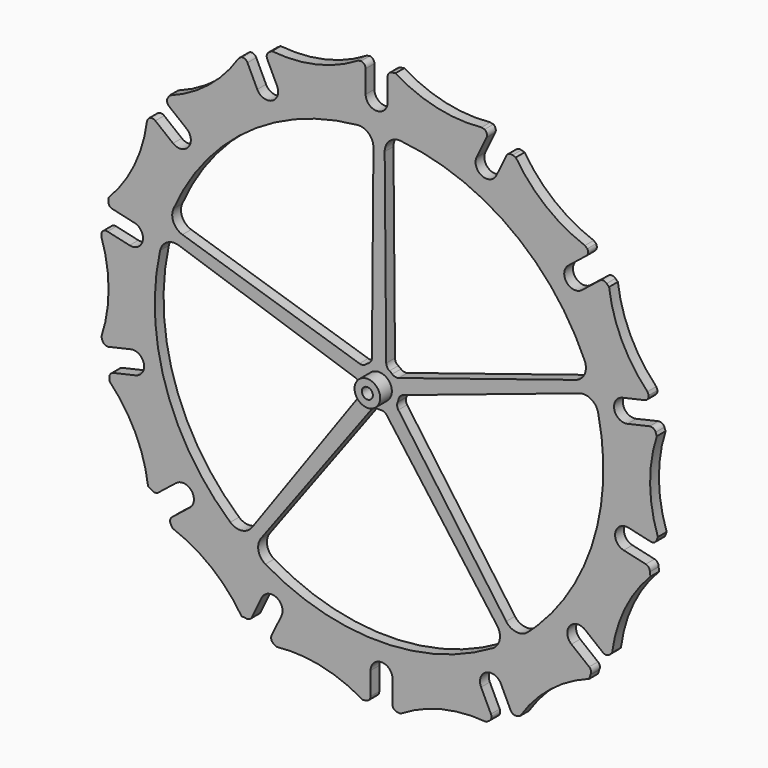
from build123d import *

# Parameters (mm, degrees)
F0_R     = 3.5
F1_DEPTH = 3
F0_R_2   = 1.5
F2_DEPTH = 7


with BuildPart() as f1:
    # F0 (on Front) → F1 (new body)
    with BuildSketch(Plane.XZ):
        with BuildLine():
            ThreePointArc((-25.190406, -28.420861), (-24.311726, -26.299541), (-22.190406, -25.420861))
            ThreePointArc((-22.190406, -25.420861), (-20.069085, -26.299541), (-19.190406, -28.420861))
            Line((-19.190406, -28.420861), (-19.190406, -34.593669))
            ThreePointArc((-19.190406, -34.593669), (-18.844109, -35.552886), (-17.943219, -36.030817))
            ThreePointArc((-17.943219, -36.030817), (-17.491836, -36.088041), (-17.041222, -36.151035))
            ThreePointArc((-17.041222, -36.151035), (-5.766514, -31.401738), (6.433422, -30.487183))
            ThreePointArc((6.433422, -30.487183), (6.812079, -30.234913), (7.193932, -29.987508))
            ThreePointArc((7.193932, -29.987508), (7.793854, -29.18094), (7.707486, -28.179442))
            Line((7.707486, -28.179442), (5.015772, -22.590041))
            ThreePointArc((5.015772, -22.590041), (6.417028, -18.585483), (10.421586, -19.986739))
            Line((10.421586, -19.986739), (13.099867, -25.548246))
            ThreePointArc((13.099867, -25.548246), (13.828058, -26.262219), (14.847098, -26.301938))
            ThreePointArc((14.847098, -26.301938), (15.278609, -26.157648), (15.71193, -26.018889))
            ThreePointArc((15.71193, -26.018889), (23.92157, -16.949533), (34.590355, -10.963848))
            ThreePointArc((34.590355, -10.963848), (34.727828, -10.456132), (34.872796, -9.950504))
            ThreePointArc((34.872796, -9.950504), (35.06335, -8.963515), (34.551001, -8.09867))
            Line((34.551001, -8.09867), (29.700701, -4.230684))
            ThreePointArc((29.700701, -4.230684), (29.225676, -0.01472), (33.44164, 0.460305))
            Line((33.44164, 0.460305), (38.267735, -3.388378))
            ThreePointArc((38.267735, -3.388378), (39.233594, -3.715694), (40.168951, -3.309336))
            ThreePointArc((40.168951, -3.309336), (40.495123, -2.992109), (40.825327, -2.679081))
            ThreePointArc((40.825327, -2.679081), (44.286911, 9.054156), (51.302063, 19.076084))
            ThreePointArc((51.302063, 19.076084), (51.205632, 19.593168), (51.116859, 20.111622))
            ThreePointArc((51.116859, 20.111622), (50.860305, 21.083547), (50.023452, 21.640446))
            Line((50.023452, 21.640446), (43.975226, 23.020914))
            ThreePointArc((43.975226, 23.020914), (41.718005, 26.61326), (45.310352, 28.870481))
            Line((45.310352, 28.870481), (51.328395, 27.496902))
            ThreePointArc((51.328395, 27.496902), (52.340621, 27.621071), (53.007035, 28.393024))
            ThreePointArc((53.007035, 28.393024), (53.163267, 28.820356), (53.324953, 29.245655))
            ThreePointArc((53.324953, 29.245655), (51.203589, 41.2945), (53.026705, 53.392066))
            ThreePointArc((53.026705, 53.392066), (52.865019, 53.817365), (52.708788, 54.244697))
            ThreePointArc((52.708788, 54.244697), (52.055937, 55.009056), (51.06033, 55.147707))
            Line((51.06033, 55.147707), (45.012104, 53.767239))
            ThreePointArc((45.012104, 53.767239), (41.419758, 56.02446), (43.676979, 59.616807))
            Line((43.676979, 59.616807), (49.695021, 60.990386))
            ThreePointArc((49.695021, 60.990386), (50.55313, 61.541447), (50.818612, 62.526098))
            ThreePointArc((50.818612, 62.526098), (50.640173, 62.913407), (50.466391, 63.302827))
            ThreePointArc((50.466391, 63.302827), (43.451239, 73.324755), (39.989656, 85.057992))
            Line((39.989656, 85.057992), (39.333279, 85.688246))
            ThreePointArc((39.333279, 85.688246), (38.413438, 86.093649), (37.456268, 85.786592))
            Line((37.456268, 85.786592), (32.605968, 81.918606))
            ThreePointArc((32.605968, 81.918606), (28.390004, 82.393631), (28.865029, 86.609595))
            Line((28.865029, 86.609595), (33.691125, 90.458278))
            ThreePointArc((33.691125, 90.458278), (34.225158, 91.327086), (34.037124, 92.329415))
            ThreePointArc((34.037124, 92.329415), (33.70831, 92.600946), (33.382774, 92.8764))
            ThreePointArc((33.382774, 92.8764), (22.713989, 98.862085), (14.50435, 107.931441))
            ThreePointArc((14.50435, 107.931441), (14.071028, 108.0702), (13.639518, 108.21449))
            ThreePointArc((13.639518, 108.21449), (12.634872, 108.180641), (11.905719, 107.488691))
            Line((11.905719, 107.488691), (9.214005, 101.899291))
            ThreePointArc((9.214005, 101.899291), (5.209447, 100.498035), (3.808192, 104.502593))
            Line((3.808192, 104.502593), (6.486473, 110.064101))
            ThreePointArc((6.486473, 110.064101), (6.590659, 111.078578), (5.986352, 111.90006))
            ThreePointArc((5.986352, 111.90006), (5.572287, 112.002034), (5.159475, 112.108965))
            ThreePointArc((5.159475, 112.108965), (-7.04986, 112.872869), (-18.381535, 117.482047))
            ThreePointArc((-18.381535, 117.482047), (-18.832149, 117.419053), (-19.283532, 117.361829))
            ThreePointArc((-19.283532, 117.361829), (-20.174, 116.895432), (-20.530719, 115.95564))
            Line((-20.530719, 115.95564), (-20.530719, 109.751873))
            ThreePointArc((-20.530719, 109.751873), (-23.530719, 106.751873), (-26.530719, 109.751873))
            Line((-26.530719, 109.751873), (-26.530719, 115.924681))
            ThreePointArc((-26.530719, 115.924681), (-26.877016, 116.883898), (-27.777905, 117.361829))
            ThreePointArc((-27.777905, 117.361829), (-28.19521, 117.274048), (-28.613536, 117.191277))
            ThreePointArc((-28.613536, 117.191277), (-39.945212, 112.582099), (-52.154547, 111.818195))
            ThreePointArc((-52.154547, 111.818195), (-52.533204, 111.565925), (-52.915057, 111.31852))
            ThreePointArc((-52.915057, 111.31852), (-53.514979, 110.511952), (-53.428611, 109.510454))
            Line((-53.428611, 109.510454), (-50.736897, 103.921053))
            ThreePointArc((-50.736897, 103.921053), (-52.138153, 99.916495), (-56.14271, 101.317751))
            Line((-56.14271, 101.317751), (-58.820991, 106.879258))
            ThreePointArc((-58.820991, 106.879258), (-59.549183, 107.59323), (-60.568223, 107.63295))
            ThreePointArc((-60.568223, 107.63295), (-60.906114, 107.372801), (-61.2471, 107.116722))
            ThreePointArc((-61.2471, 107.116722), (-69.45674, 98.047366), (-80.125525, 92.06168))
            ThreePointArc((-80.125525, 92.06168), (-80.357228, 91.6701), (-80.59392, 91.281516))
            ThreePointArc((-80.59392, 91.281516), (-80.784475, 90.294526), (-80.272126, 89.429681))
            Line((-80.272126, 89.429681), (-75.421825, 85.561696))
            ThreePointArc((-75.421825, 85.561696), (-74.9468, 81.345732), (-79.162764, 80.870707))
            Line((-79.162764, 80.870707), (-83.98886, 84.71939))
            ThreePointArc((-83.98886, 84.71939), (-84.954719, 85.046706), (-85.890075, 84.640347))
            ThreePointArc((-85.890075, 84.640347), (-86.081631, 84.259356), (-86.27774, 83.880688))
            ThreePointArc((-86.27774, 83.880688), (-89.739324, 72.147451), (-96.754475, 62.125523))
            ThreePointArc((-96.754475, 62.125523), (-96.793332, 61.672189), (-96.837984, 61.21939))
            ThreePointArc((-96.837984, 61.21939), (-96.581429, 60.247465), (-95.744576, 59.690566))
            Line((-95.744576, 59.690566), (-89.696351, 58.310098))
            ThreePointArc((-89.696351, 58.310098), (-87.43913, 54.717752), (-91.031477, 52.460531))
            Line((-91.031477, 52.460531), (-97.049519, 53.83411))
            ThreePointArc((-97.049519, 53.83411), (-98.061745, 53.709941), (-98.72816, 52.937988))
            ThreePointArc((-98.72816, 52.937988), (-98.735439, 52.511614), (-98.74783, 52.085357))
            ThreePointArc((-98.74783, 52.085357), (-96.775748, 40.012152), (-98.74783, 27.938946))
            ThreePointArc((-98.74783, 27.938946), (-98.586144, 27.513647), (-98.429912, 27.086315))
            ThreePointArc((-98.429912, 27.086315), (-97.777062, 26.321956), (-96.781454, 26.183304))
            Line((-96.781454, 26.183304), (-90.733229, 27.563772))
            ThreePointArc((-90.733229, 27.563772), (-87.140882, 25.306551), (-89.398103, 21.714205))
            Line((-89.398103, 21.714205), (-95.416146, 20.340626))
            ThreePointArc((-95.416146, 20.340626), (-96.274255, 19.789565), (-96.539736, 18.804914))
            ThreePointArc((-96.539736, 18.804914), (-96.495084, 18.352114), (-96.456228, 17.89878))
            ThreePointArc((-96.456228, 17.89878), (-89.441076, 7.876852), (-85.979492, -3.856385))
            ThreePointArc((-85.979492, -3.856385), (-85.515096, -4.103389), (-85.054404, -4.357235))
            ThreePointArc((-85.054404, -4.357235), (-84.134563, -4.762637), (-83.177393, -4.45558))
            Line((-83.177393, -4.45558), (-78.327093, -0.587594))
            ThreePointArc((-78.327093, -0.587594), (-74.111129, -1.062619), (-74.586154, -5.278583))
            Line((-74.586154, -5.278583), (-79.412249, -9.127266))
            ThreePointArc((-79.412249, -9.127266), (-79.946283, -9.996074), (-79.758249, -10.998403))
            ThreePointArc((-79.758249, -10.998403), (-79.521556, -11.386987), (-79.289854, -11.778568))
            ThreePointArc((-79.289854, -11.778568), (-68.621069, -17.764253), (-60.411429, -26.833609))
            ThreePointArc((-60.411429, -26.833609), (-59.885851, -26.854658), (-59.360642, -26.883478))
            ThreePointArc((-59.360642, -26.883478), (-58.355997, -26.849629), (-57.626844, -26.15768))
            Line((-57.626844, -26.15768), (-54.93513, -20.568279))
            ThreePointArc((-54.93513, -20.568279), (-50.930572, -19.167023), (-49.529317, -23.171581))
            Line((-49.529317, -23.171581), (-52.207598, -28.733089))
            ThreePointArc((-52.207598, -28.733089), (-52.311784, -29.747566), (-51.707477, -30.569048))
            ThreePointArc((-51.707477, -30.569048), (-51.325623, -30.816454), (-50.946966, -31.068723))
            ThreePointArc((-50.946966, -31.068723), (-45.128778, -30.86494), (-39.347901, -31.553645))
            ThreePointArc((-39.347901, -31.553645), (-33.147576, -33.33995), (-27.339589, -36.151035))
            ThreePointArc((-27.339589, -36.151035), (-26.888975, -36.088041), (-26.437592, -36.030817))
            ThreePointArc((-26.437592, -36.030817), (-25.547124, -35.564421), (-25.190406, -34.624628))
            Line((-25.190406, -34.624628), (-25.190406, -28.420861))
        make_face()
        with BuildLine():
            ThreePointArc((8.206922, -12.170026), (-22.860562, -20.627088), (-53.928047, -12.170026))
            ThreePointArc((-53.928047, -12.170026), (-55.819785, -9.521736), (-55.116967, -6.343974))
            Line((-55.116967, -6.343974), (-24.958863, 34.447503))
            ThreePointArc((-24.958863, 34.447503), (-24.239008, 35.028902), (-23.327005, 35.185321))
            ThreePointArc((-23.327005, 35.185321), (-22.860562, 35.165506), (-22.39412, 35.185321))
            ThreePointArc((-22.39412, 35.185321), (-21.482117, 35.028902), (-20.762262, 34.447503))
            Line((-20.762262, 34.447503), (9.395843, -6.343974))
            ThreePointArc((9.395843, -6.343974), (10.09866, -9.521736), (8.206922, -12.170026))
        make_face(mode=Mode.SUBTRACT)
        with BuildLine():
            ThreePointArc((-29.422646, 40.73964), (-28.647255, 40.234679), (-28.216667, 39.415648))
            ThreePointArc((-28.216667, 39.415648), (-28.091373, 38.965912), (-27.92839, 38.528423))
            ThreePointArc((-27.92839, 38.528423), (-27.795328, 37.61272), (-28.125824, 36.748435))
            Line((-28.125824, 36.748435), (-57.601458, -4.538886))
            ThreePointArc((-57.601458, -4.538886), (-60.406505, -6.189288), (-63.509759, -5.208505))
            ThreePointArc((-63.509759, -5.208505), (-81.153283, 21.725053), (-82.71052, 53.885362))
            ThreePointArc((-82.71052, 53.885362), (-80.776425, 56.502879), (-77.537012, 56.816442))
            Line((-77.537012, 56.816442), (-29.422646, 40.73964))
        make_face(mode=Mode.SUBTRACT)
        with BuildLine():
            Line((11.880333, -4.538886), (-17.5953, 36.748435))
            ThreePointArc((-17.5953, 36.748435), (-17.925796, 37.61272), (-17.792735, 38.528423))
            ThreePointArc((-17.792735, 38.528423), (-17.629752, 38.965912), (-17.504458, 39.415648))
            ThreePointArc((-17.504458, 39.415648), (-17.07387, 40.234679), (-16.298479, 40.73964))
            Line((-16.298479, 40.73964), (31.815887, 56.816442))
            ThreePointArc((31.815887, 56.816442), (35.055301, 56.502879), (36.989396, 53.885362))
            ThreePointArc((36.989396, 53.885362), (35.976746, 23.491304), (20.479846, -2.674903))
            ThreePointArc((20.479846, -2.674903), (19.153343, -3.961995), (17.788634, -5.208505))
            ThreePointArc((17.788634, -5.208505), (14.685381, -6.189288), (11.880333, -4.538886))
        make_face(mode=Mode.SUBTRACT)
        with BuildLine():
            Line((-24.396062, 97.656813), (-24.817852, 46.929326))
            ThreePointArc((-24.817852, 46.929326), (-25.058489, 46.035844), (-25.704375, 45.373237))
            ThreePointArc((-25.704375, 45.373237), (-26.093381, 45.115099), (-26.459094, 44.824901))
            ThreePointArc((-26.459094, 44.824901), (-27.288861, 44.415385), (-28.212974, 44.462626))
            Line((-28.212974, 44.462626), (-76.588021, 59.737135))
            ThreePointArc((-76.588021, 59.737135), (-79.024454, 61.894892), (-79.050632, 65.14934))
            ThreePointArc((-79.050632, 65.14934), (-58.887445, 90.252256), (-28.782386, 101.671359))
            ThreePointArc((-28.782386, 101.671359), (-25.695311, 100.640782), (-24.396062, 97.656813))
        make_face(mode=Mode.SUBTRACT)
        with Locations((-22.860562, 40.665506)):
            Circle(F0_R, mode=Mode.SUBTRACT)
        with BuildLine():
            ThreePointArc((-20.01675, 45.373237), (-20.662635, 46.035844), (-20.903273, 46.929326))
            Line((-20.903273, 46.929326), (-21.325063, 97.656813))
            ThreePointArc((-21.325063, 97.656813), (-20.025813, 100.640782), (-16.938739, 101.671359))
            ThreePointArc((-16.938739, 101.671359), (13.16632, 90.252256), (33.329507, 65.14934))
            ThreePointArc((33.329507, 65.14934), (33.303329, 61.894892), (30.866897, 59.737135))
            Line((30.866897, 59.737135), (-17.508151, 44.462626))
            ThreePointArc((-17.508151, 44.462626), (-18.432264, 44.415385), (-19.262031, 44.824901))
            ThreePointArc((-19.262031, 44.824901), (-19.627743, 45.115099), (-20.01675, 45.373237))
        make_face(mode=Mode.SUBTRACT)
    extrude(amount=F1_DEPTH)

    # F0 (on Front) → F2 (join)
    with BuildSketch(Plane.XZ):
        with Locations((-22.860562, 40.665506)):
            Circle(F0_R)
        with Locations((-22.860562, 40.665506)):
            Circle(F0_R_2, mode=Mode.SUBTRACT)
    extrude(amount=F2_DEPTH)


solid = f1.part
